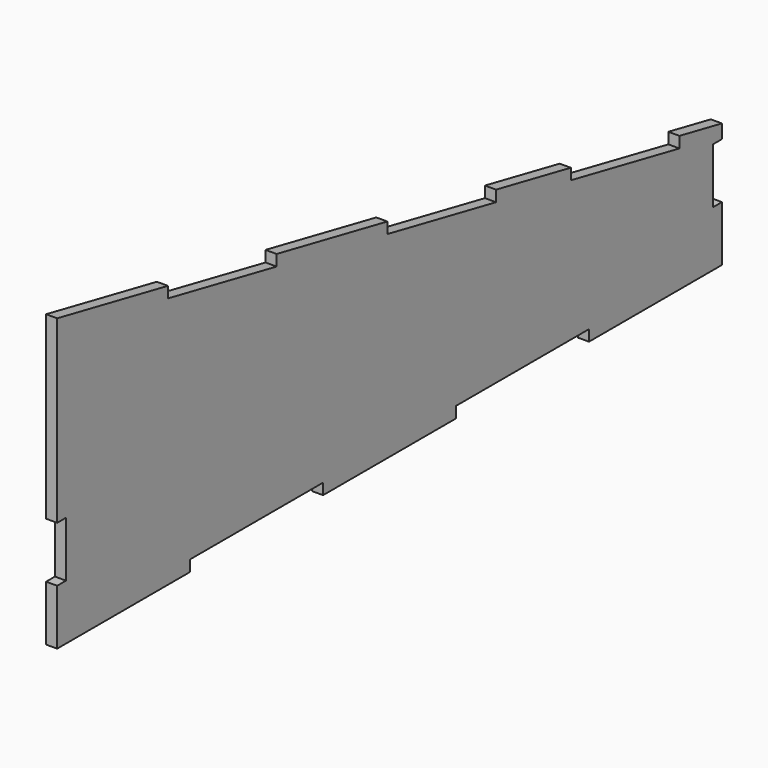
from build123d import *

# Parameters (mm, degrees)
F1_DEPTH = 4


with BuildPart() as f1:
    # F0 (on Right) → F1 (new body)
    with BuildSketch(Plane.YZ):
        Polygon((-60, 0), (0, 0), (0, 20), (-4, 20), (-4, 40), (0, 40), (0, 45), (-19.1761123918, 48.8352224784), (-19.1761123918, 44.8352224784), (-68.2051461763, 54.6410292353), (-68.2051461763, 58.6410292353), (-101.9419324309, 65.3883864862), (-101.9419324309, 61.3883864862), (-150.9709662155, 71.1941932431), (-150.9709662155, 75.1941932431), (-200.9709662155, 85.1941932431), (-200.9709662155, 81.1941932431), (-250, 91), (-250, 95), (-300, 105), (-300, 40), (-296, 40), (-296, 20), (-300, 20), (-300, 0), (-240, 0), (-240, 4), (-180, 4), (-180, 0), (-120, 0), (-120, 4), (-60, 4), align=None)
    extrude(amount=F1_DEPTH)


solid = f1.part
